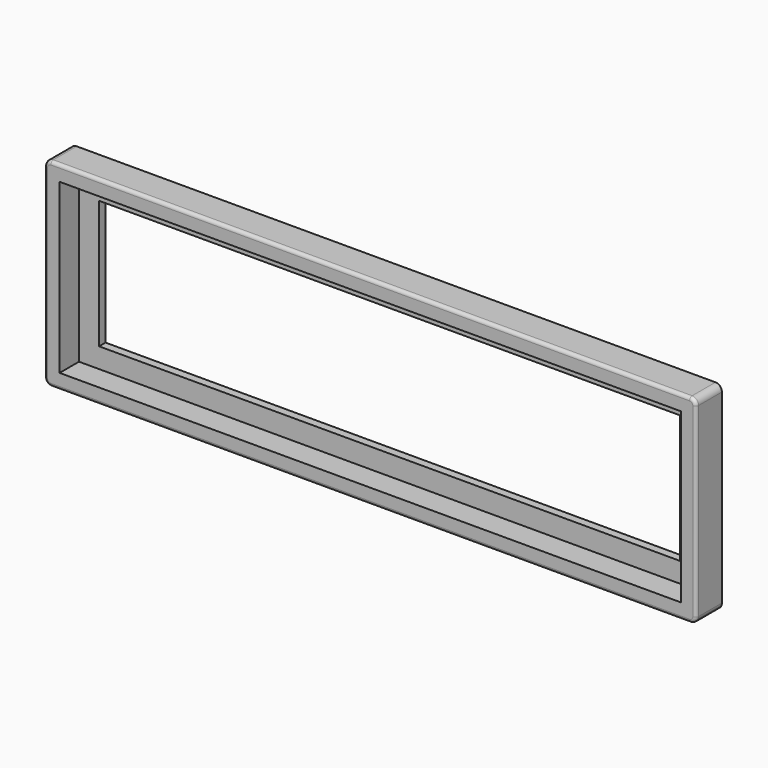
from build123d import *

# Parameters (mm, degrees)
SKETCH051_W   = 100.7
SKETCH051_H   = 30.7
SKETCH051_W_2 = 89.8
SKETCH051_H_2 = 19.8
PAD022_DEPTH  = 1.25
SKETCH052_W   = 100.7
SKETCH052_H   = 30.7
SKETCH052_W_2 = 96
SKETCH052_H_2 = 26
PAD023_DEPTH  = 3.75
FILLET_R      = 1
FILLET005_R   = 0.5


with BuildPart() as part:
    # Sketch051 → Pad022 (new body)
    with BuildSketch(Plane.XZ):
        with Locations((0, 21.5)):
            Rectangle(SKETCH051_W, SKETCH051_H)
        with Locations((0, 21.5)):
            Rectangle(SKETCH051_W_2, SKETCH051_H_2, mode=Mode.SUBTRACT)
    extrude(amount=PAD022_DEPTH)

    # Sketch052 (on Face10 of Pad022) → Pad023 (join)
    with BuildSketch(Plane.XZ.offset(1.25)):
        with Locations((0, 21.5)):
            Rectangle(SKETCH052_W, SKETCH052_H)
        with Locations((0, 21.5)):
            Rectangle(SKETCH052_W_2, SKETCH052_H_2, mode=Mode.SUBTRACT)
    extrude(amount=PAD023_DEPTH)

    # Fillet
    fillet_edges = [part.edges().sort_by_distance(p)[0] for p in [
        (-50.35, -3.125, 36.85),
        (-50.35, -3.125, 6.15),
        (50.35, -3.125, 36.85),
        (50.35, -3.125, 6.15),
    ]]
    fillet(fillet_edges, radius=FILLET_R)

    # Fillet005
    fillet005_edges = [part.edges().sort_by_distance(p)[0] for p in [
        (0, -5, 6.15),
    ]]
    fillet(fillet005_edges, radius=FILLET005_R)


with BuildPart() as part_1:
    # Body011 placement: moved
    add(part.part.moved(Location((0, -70, 0))))


solid = part_1.part
